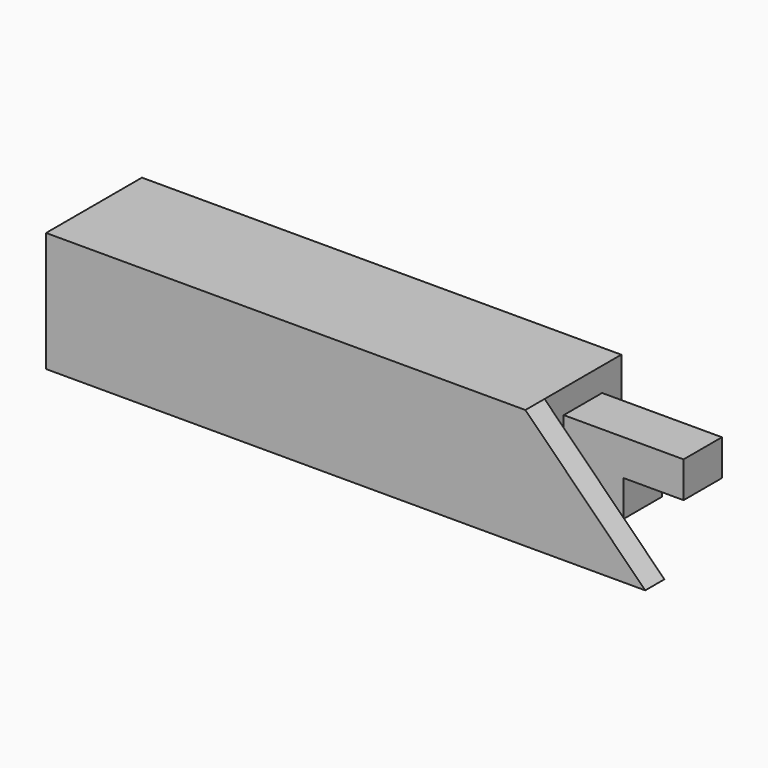
from build123d import *

# Parameters (mm, degrees)
BOX004_W               = 25
BOX004_H               = 20
BOX004_DEPTH           = 20
BOX002_W               = 200
BOX002_H               = 50
BOX002_DEPTH           = 50
BOX003_W               = 50
BOX003_H               = 20
BOX003_DEPTH           = 30
BOX001_W               = 100
BOX001_H               = 10
BOX001_DEPTH           = 100
BOX001_PLACEMENT_ANGLE = 45
BOX_W                  = 50
BOX_H                  = 10
BOX_DEPTH              = 50


with BuildPart() as cube004:
    # Box004 → Box004 (new body)
    with BuildSketch(Plane(origin=(25, 20, 5), x_dir=(1, 0, 0), z_dir=(0, 0, 1))):
        with Locations((12.5, 10)):
            Rectangle(BOX004_W, BOX004_H)
    extrude(amount=BOX004_DEPTH)


with BuildPart() as cube002:
    # Box002 → Box002 (new body)
    with BuildSketch(Plane(origin=(0, 0, 50), x_dir=(-1, 0, 0), z_dir=(0, 0, -1))):
        with Locations((100, 25)):
            Rectangle(BOX002_W, BOX002_H)
    extrude(amount=BOX002_DEPTH)


with BuildPart() as cube003:
    # Box003 → Box003 (new body)
    with BuildSketch(Plane(origin=(0, 20, 10), x_dir=(1, 0, 0), z_dir=(0, 0, 1))):
        with Locations((25, 10)):
            Rectangle(BOX003_W, BOX003_H)
    extrude(amount=BOX003_DEPTH)


with BuildPart() as cube001:
    # Box001 → Box001 (new body)
    with BuildSketch(Plane.XY):
        with Locations((50, 5)):
            Rectangle(BOX001_W, BOX001_H)
    extrude(amount=BOX001_DEPTH)


with BuildPart() as cube001_1:
    # Box001 placement: moved
    add(cube001.part.moved(Location((0, 0, 50))).rotate(Axis((0, 0, 50), (0, 1, 0)), BOX001_PLACEMENT_ANGLE))


with BuildPart() as cut001:
    # Box → Box (new body)
    with BuildSketch(Plane.XY):
        with Locations((25, 5)):
            Rectangle(BOX_W, BOX_H)
    extrude(amount=BOX_DEPTH)

    # Cut: cut Cube001
    add(cube001_1.part, mode=Mode.SUBTRACT)

    # Fusion: union Cube002, Cube003
    add(cube002.part)
    add(cube003.part)

    # Cut001: cut Cube004
    add(cube004.part, mode=Mode.SUBTRACT)


solid = cut001.part
